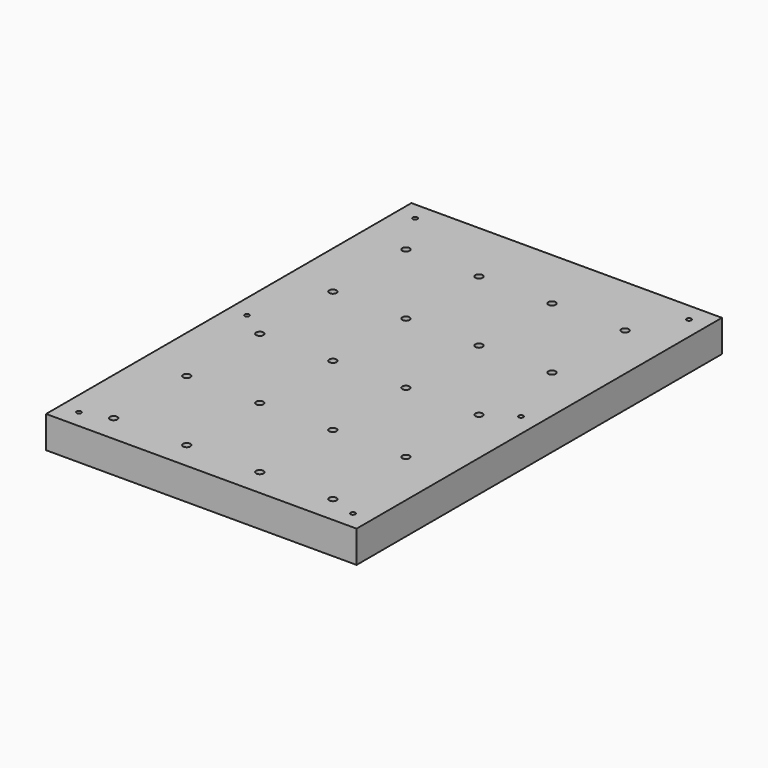
from build123d import *

# Parameters (mm, degrees)
F0_W     = 340
F0_H     = 500
F0_R     = 2.5
F0_R_2   = 4
F1_DEPTH = 35
F2_DEPTH = 18


with BuildPart() as f1:
    # F0 (on Top) → F1 (new body)
    with BuildSketch(Plane.XY):
        with Locations((170, 250)):
            Rectangle(F0_W, F0_H)
        with Locations((20, 20)):
            Circle(F0_R, mode=Mode.SUBTRACT)
        with Locations((50, 30)):
            Circle(F0_R_2, mode=Mode.SUBTRACT)
        with Locations((130, 30)):
            Circle(F0_R_2, mode=Mode.SUBTRACT)
        with Locations((50, 130)):
            Circle(F0_R_2, mode=Mode.SUBTRACT)
        with Locations((50, 230)):
            Circle(F0_R_2, mode=Mode.SUBTRACT)
        with Locations((130, 130)):
            Circle(F0_R_2, mode=Mode.SUBTRACT)
        with Locations((130, 230)):
            Circle(F0_R_2, mode=Mode.SUBTRACT)
        with Locations((210, 30)):
            Circle(F0_R_2, mode=Mode.SUBTRACT)
        with Locations((290, 30)):
            Circle(F0_R_2, mode=Mode.SUBTRACT)
        with Locations((320, 20)):
            Circle(F0_R, mode=Mode.SUBTRACT)
        with Locations((210, 130)):
            Circle(F0_R_2, mode=Mode.SUBTRACT)
        with Locations((210, 230)):
            Circle(F0_R_2, mode=Mode.SUBTRACT)
        with Locations((290, 130)):
            Circle(F0_R_2, mode=Mode.SUBTRACT)
        with Locations((290, 230)):
            Circle(F0_R_2, mode=Mode.SUBTRACT)
        with Locations((20, 250)):
            Circle(F0_R, mode=Mode.SUBTRACT)
        with Locations((50, 330)):
            Circle(F0_R_2, mode=Mode.SUBTRACT)
        with Locations((130, 330)):
            Circle(F0_R_2, mode=Mode.SUBTRACT)
        with Locations((50, 430)):
            Circle(F0_R_2, mode=Mode.SUBTRACT)
        with Locations((20, 480)):
            Circle(F0_R, mode=Mode.SUBTRACT)
        with Locations((130, 430)):
            Circle(F0_R_2, mode=Mode.SUBTRACT)
        with Locations((210, 330)):
            Circle(F0_R_2, mode=Mode.SUBTRACT)
        with Locations((320, 250)):
            Circle(F0_R, mode=Mode.SUBTRACT)
        with Locations((290, 330)):
            Circle(F0_R_2, mode=Mode.SUBTRACT)
        with Locations((210, 430)):
            Circle(F0_R_2, mode=Mode.SUBTRACT)
        with Locations((290, 430)):
            Circle(F0_R_2, mode=Mode.SUBTRACT)
        with Locations((320, 480)):
            Circle(F0_R, mode=Mode.SUBTRACT)
    extrude(amount=F1_DEPTH)

    # F0 (on Top) → F2 (join)
    with BuildSketch(Plane.XY):
        with Locations((50, 430)):
            Circle(F0_R_2)
        with Locations((50, 430)):
            Circle(F0_R, mode=Mode.SUBTRACT)
        with Locations((130, 430)):
            Circle(F0_R_2)
        with Locations((130, 430)):
            Circle(F0_R, mode=Mode.SUBTRACT)
        with Locations((50, 330)):
            Circle(F0_R_2)
        with Locations((50, 330)):
            Circle(F0_R, mode=Mode.SUBTRACT)
        with Locations((130, 330)):
            Circle(F0_R_2)
        with Locations((130, 330)):
            Circle(F0_R, mode=Mode.SUBTRACT)
        with Locations((210, 430)):
            Circle(F0_R_2)
        with Locations((210, 430)):
            Circle(F0_R, mode=Mode.SUBTRACT)
        with Locations((210, 330)):
            Circle(F0_R_2)
        with Locations((210, 330)):
            Circle(F0_R, mode=Mode.SUBTRACT)
        with Locations((290, 330)):
            Circle(F0_R_2)
        with Locations((290, 330)):
            Circle(F0_R, mode=Mode.SUBTRACT)
        with Locations((290, 430)):
            Circle(F0_R_2)
        with Locations((290, 430)):
            Circle(F0_R, mode=Mode.SUBTRACT)
        with Locations((50, 230)):
            Circle(F0_R_2)
        with Locations((50, 230)):
            Circle(F0_R, mode=Mode.SUBTRACT)
        with Locations((130, 230)):
            Circle(F0_R_2)
        with Locations((130, 230)):
            Circle(F0_R, mode=Mode.SUBTRACT)
        with Locations((210, 230)):
            Circle(F0_R_2)
        with Locations((210, 230)):
            Circle(F0_R, mode=Mode.SUBTRACT)
        with Locations((290, 230)):
            Circle(F0_R_2)
        with Locations((290, 230)):
            Circle(F0_R, mode=Mode.SUBTRACT)
        with Locations((50, 130)):
            Circle(F0_R_2)
        with Locations((50, 130)):
            Circle(F0_R, mode=Mode.SUBTRACT)
        with Locations((130, 130)):
            Circle(F0_R_2)
        with Locations((130, 130)):
            Circle(F0_R, mode=Mode.SUBTRACT)
        with Locations((210, 130)):
            Circle(F0_R_2)
        with Locations((210, 130)):
            Circle(F0_R, mode=Mode.SUBTRACT)
        with Locations((290, 130)):
            Circle(F0_R_2)
        with Locations((290, 130)):
            Circle(F0_R, mode=Mode.SUBTRACT)
        with Locations((50, 30)):
            Circle(F0_R_2)
        with Locations((50, 30)):
            Circle(F0_R, mode=Mode.SUBTRACT)
        with Locations((130, 30)):
            Circle(F0_R_2)
        with Locations((130, 30)):
            Circle(F0_R, mode=Mode.SUBTRACT)
        with Locations((210, 30)):
            Circle(F0_R_2)
        with Locations((210, 30)):
            Circle(F0_R, mode=Mode.SUBTRACT)
        with Locations((290, 30)):
            Circle(F0_R_2)
        with Locations((290, 30)):
            Circle(F0_R, mode=Mode.SUBTRACT)
    extrude(amount=F2_DEPTH)


solid = f1.part
